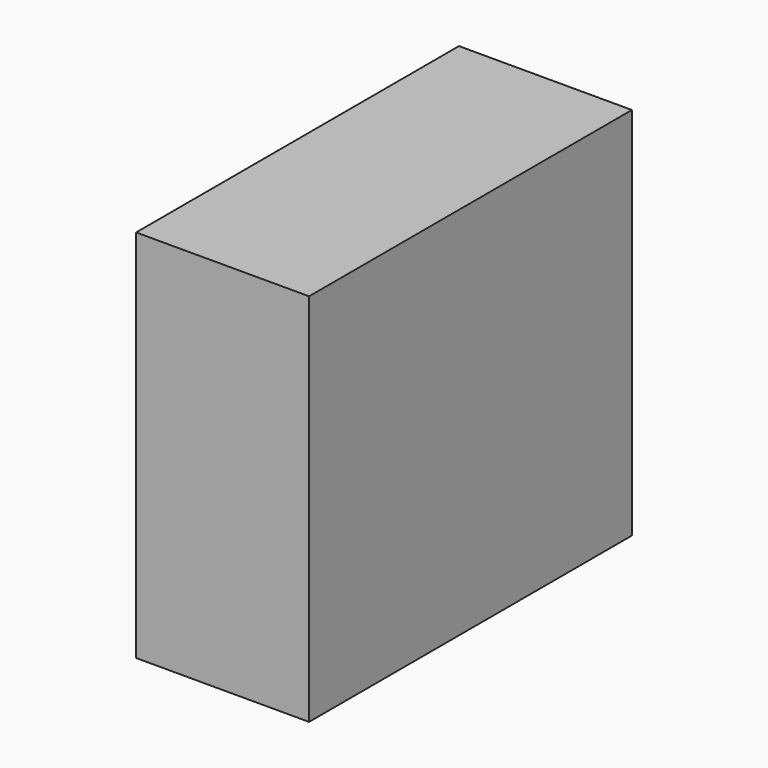
from build123d import *

# Parameters (mm, degrees)
F0_W     = 88.9
F0_H     = 38.1
F1_DEPTH = 82.55
F5_W     = 88.9
F5_H     = 82.55
F6_DEPTH = 38.1


with BuildPart() as f1:
    # F0 (on Top) → F1 (new body)
    with BuildSketch(Plane.XY):
        Rectangle(F0_W, F0_H)
    extrude(amount=F1_DEPTH)


with BuildPart() as f2_1:
    # F2: copy of F1
    add(f1.part)


with BuildPart() as f6:
    # F5 (on Right) → F6 (new body)
    with BuildSketch(Plane.YZ):
        Rectangle(F5_W, F5_H)
    extrude(amount=F6_DEPTH)


solid = f6.part
